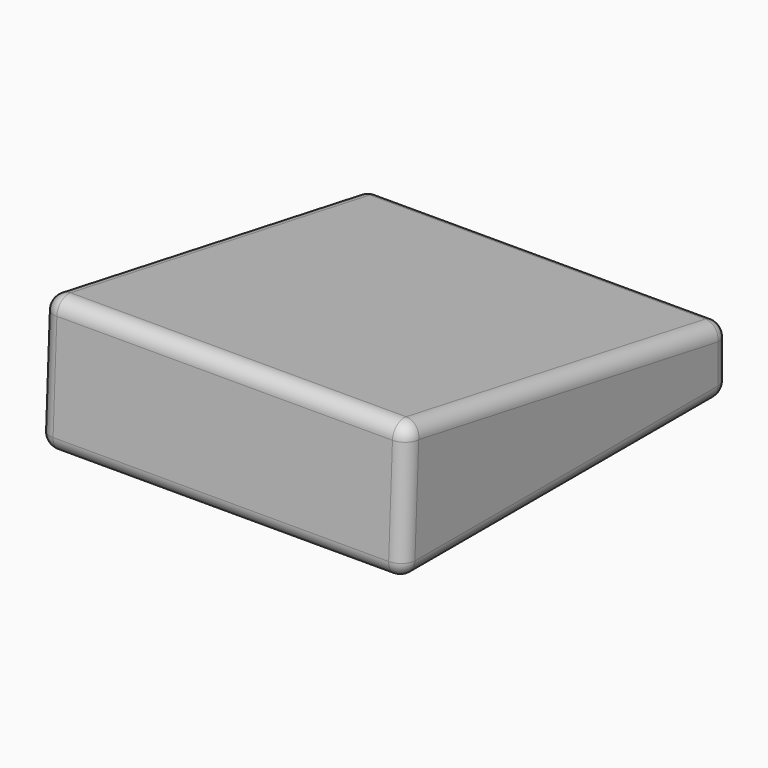
from build123d import *

# Parameters (mm, degrees)
F1_DEPTH = 25
F2_R     = 1


with BuildPart() as f1:
    # F0 (on Right) → F1 (new body)
    with BuildSketch(Plane.YZ):
        Polygon((-8.987537, 9.362149), (-9.41292, 0), (18.58708, 0), (18.58708, 4.5), align=None)
    extrude(amount=F1_DEPTH)

    # F2
    f2_edges = [f1.edges().sort_by_distance(p)[0] for p in [
        (12.5, 18.58708, 4.5),
        (12.5, -8.987537, 9.362149),
        (0, 4.799771, 6.931074),
        (25, 4.799771, 6.931074),
        (12.5, -9.41292, 0),
        (12.5, 18.58708, 0),
        (0, 4.58708, 0),
        (25, 4.58708, 0),
        (25, -9.200229, 4.681074),
        (0, -9.200229, 4.681074),
        (25, 18.58708, 2.25),
        (0, 18.58708, 2.25),
    ]]
    fillet(f2_edges, radius=F2_R)


solid = f1.part
